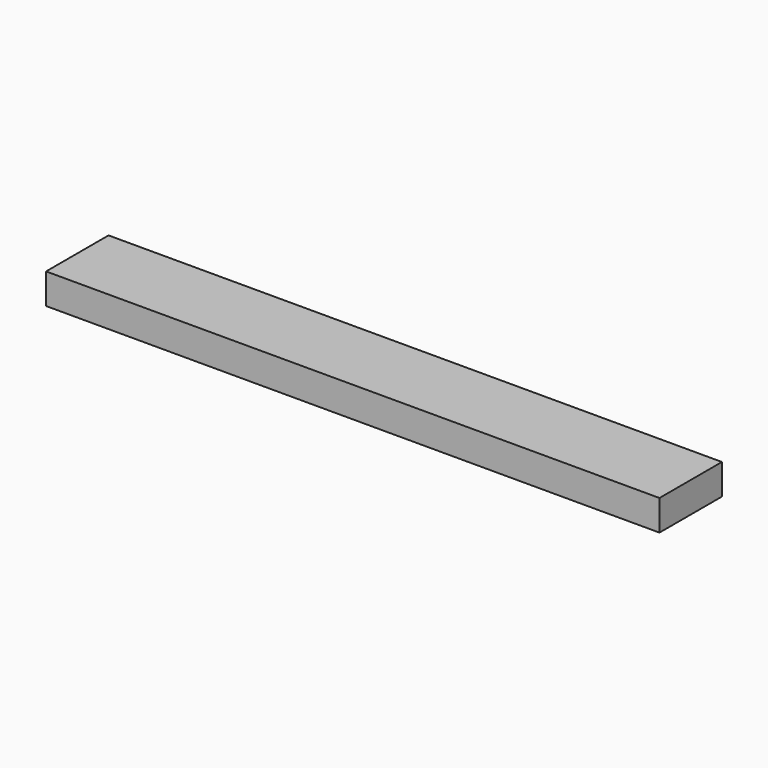
from build123d import *

# Parameters (mm, degrees)
F0_W     = 63.881
F0_H     = 8.128
F1_DEPTH = 3.175
F2_T     = -1.524
F3_R     = 1.2319
F4_DEPTH = 1.33086


with BuildPart() as f1:
    # F0 (on Top) → F1 (new body)
    with BuildSketch(Plane.XY):
        with Locations((5.883156, 0.358789)):
            Rectangle(F0_W, F0_H)
    extrude(amount=F1_DEPTH)

    # F2
    f2_openings = [f1.faces().sort_by_distance(p)[0] for p in [
        (5.883156, 0.358789, 0),
    ]]
    offset(amount=F2_T, openings=f2_openings)

    # F3 (on face) → F4 (join)
    with BuildSketch(Plane(origin=(0, 0, 1.651), x_dir=(1, 0, 0), z_dir=(0, 0, -1))):
        with Locations((28.349456, -0.358789)):
            Circle(F3_R)
        with Locations((20.729456, -0.358789)):
            Circle(F3_R)
        with Locations((13.109456, -0.358789)):
            Circle(F3_R)
        with Locations((5.489456, -0.358789)):
            Circle(F3_R)
        with Locations((-2.130544, -0.358789)):
            Circle(F3_R)
        with Locations((-9.750544, -0.358789)):
            Circle(F3_R)
        with BuildLine():
            ThreePointArc((-18.602444, -0.358789), (-17.370544, -1.590689), (-16.138644, -0.358789))
            ThreePointArc((-16.138644, -0.358789), (-17.370544, 0.873111), (-18.602444, -0.358789))
        make_face()
    extrude(amount=F4_DEPTH)


solid = f1.part
